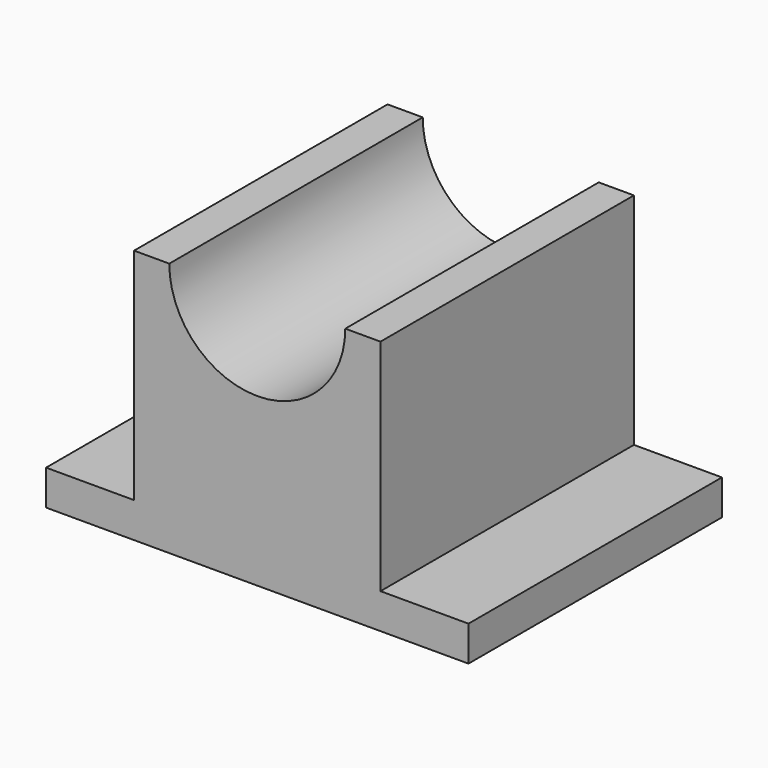
from build123d import *

# Parameters (mm, degrees)
F0_W     = 152.4
F0_H     = 114.3
F1_DEPTH = 91.948
F3_DEPTH = 175.38727
F4_W     = 31.75
F4_H     = 114.3
F5_DEPTH = 79.248
F6_W     = 31.75
F6_H     = 114.3
F7_DEPTH = 79.248


with BuildPart() as f1:
    # F0 (on Top) → F1 (new body)
    with BuildSketch(Plane.XY):
        Rectangle(F0_W, F0_H)
    extrude(amount=F1_DEPTH)

    # F2 (on face) → F3 (cut)
    with BuildSketch(Plane.XZ.offset(57.15)):
        with BuildLine():
            Line((31.75, 91.948), (-31.75, 91.948))
            ThreePointArc((-31.75, 91.948), (0, 60.198), (31.75, 91.948))
        make_face()
    extrude(amount=-F3_DEPTH, mode=Mode.SUBTRACT)

    # F4 (on face) → F5 (cut)
    with BuildSketch(Plane.XY.offset(91.948)):
        with Locations((60.325, 0)):
            Rectangle(F4_W, F4_H)
    extrude(amount=-F5_DEPTH, mode=Mode.SUBTRACT)

    # F6 (on face) → F7 (cut)
    with BuildSketch(Plane.XY.offset(91.948)):
        with Locations((-60.325, 0)):
            Rectangle(F6_W, F6_H)
    extrude(amount=-F7_DEPTH, mode=Mode.SUBTRACT)


solid = f1.part
